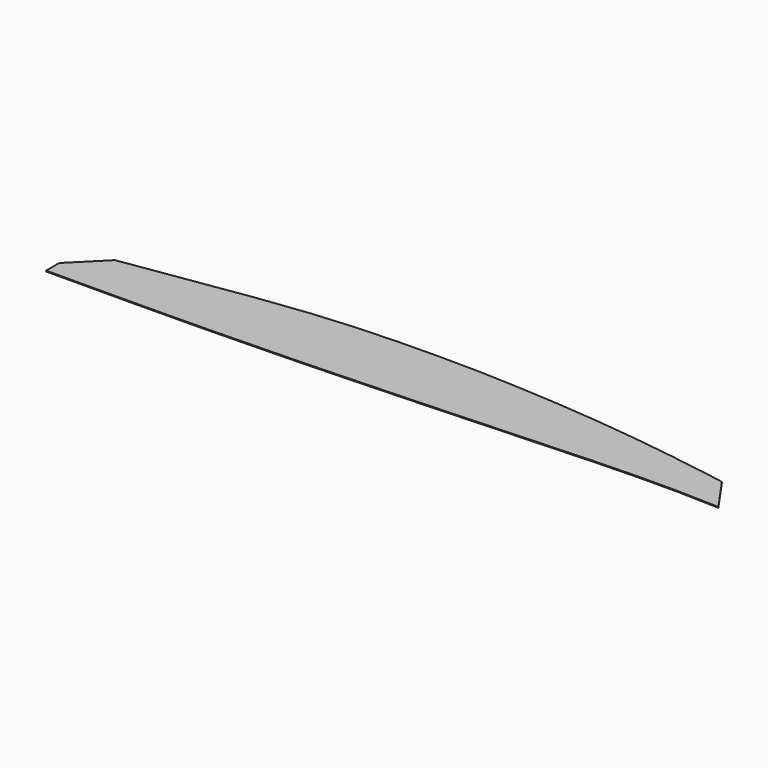
from build123d import *

# Parameters (mm, degrees)
F1_DEPTH = 4


with BuildPart() as f1:
    # F0 (on Top) → F1 (new body)
    with BuildSketch(Plane.XY):
        Polygon((0, 80), (0, 0), (400, 2), (600, 4), (800, 7), (1000, 12), (1200, 17), (1400, 24), (1600, 32), (1800, 40), (2000, 49), (2200, 58), (2400, 67), (2600, 76), (2800, 82), (3000, 83), (3201, 77), (3083, 246), (3000, 261), (2800, 292), (2600, 319), (2400, 341), (2200, 358), (2000, 370), (1800, 378), (1600, 380), (1400, 377), (1200, 368), (1000, 352), (750, 321), (150, 230), align=None)
    extrude(amount=F1_DEPTH)


solid = f1.part
